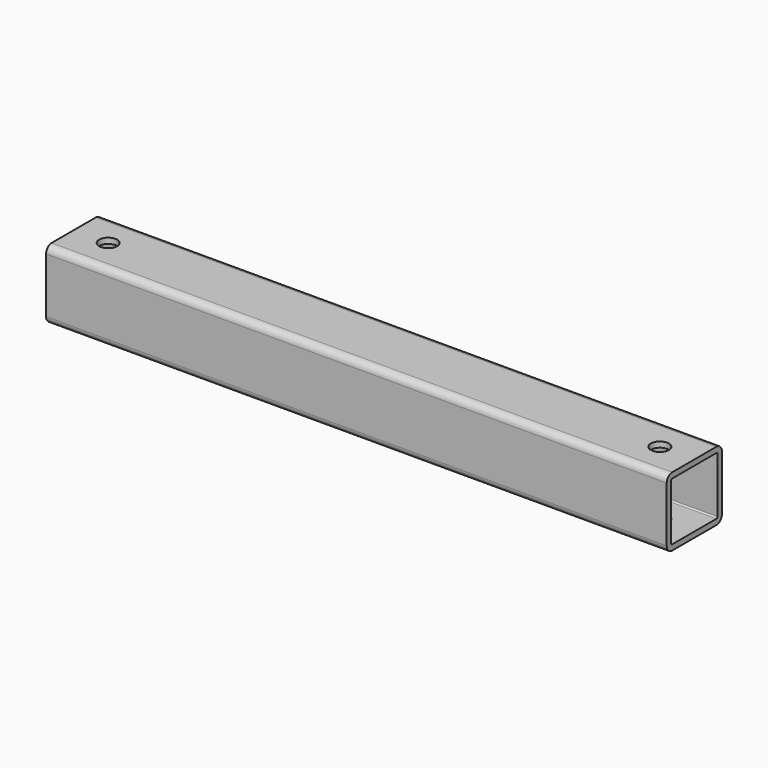
from build123d import *

# Parameters (mm, degrees)
F1_DEPTH = 450
F2_R     = 6.5
F3_DEPTH = 50.001


with BuildPart() as f1:
    # F0 (on Right) → F1 (new body)
    with BuildSketch(Plane.YZ):
        with BuildLine():
            ThreePointArc((0, 5), (1.464466, 1.464466), (5, 0))
            Line((5, 0), (45, 0))
            ThreePointArc((45, 0), (48.535534, 1.464466), (50, 5))
            Line((50, 5), (50, 45))
            ThreePointArc((50, 45), (48.535534, 48.535534), (45, 50))
            Line((45, 50), (5, 50))
            ThreePointArc((5, 50), (1.464466, 48.535534), (0, 45))
            Line((0, 45), (0, 5))
        make_face()
        with BuildLine():
            Line((45, 4), (5, 4))
            ThreePointArc((5, 4), (4.292893, 4.292893), (4, 5))
            Line((4, 5), (4, 45))
            ThreePointArc((4, 45), (4.292893, 45.707107), (5, 46))
            Line((5, 46), (45, 46))
            ThreePointArc((45, 46), (45.707107, 45.707107), (46, 45))
            Line((46, 45), (46, 5))
            ThreePointArc((46, 5), (45.707107, 4.292893), (45, 4))
        make_face(mode=Mode.SUBTRACT)
    extrude(amount=F1_DEPTH)

    # F2 (on face) → F3 (cut, through all)
    with BuildSketch(Plane.XY.offset(50)):
        with Locations((25, 25)):
            Circle(F2_R)
        with Locations((425, 25)):
            Circle(F2_R)
    extrude(amount=-F3_DEPTH, mode=Mode.SUBTRACT)


solid = f1.part
